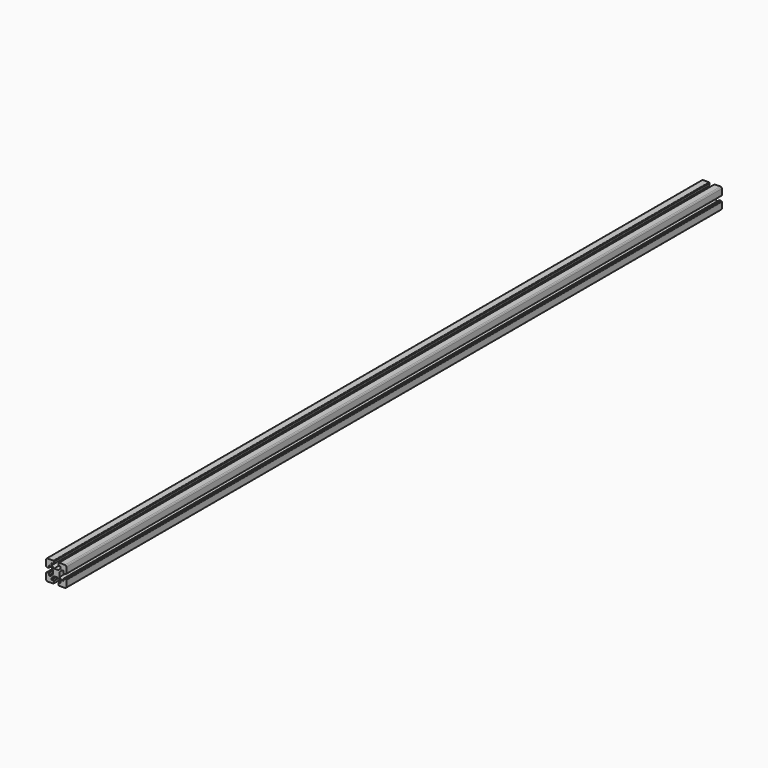
from build123d import *

# Parameters (mm, degrees)
F1_DEPTH = 1820


with BuildPart() as f1:
    # F0 (on Front) → F1 (new body)
    with BuildSketch(Plane.XZ):
        with BuildLine():
            Line((93.5, 122.5), (80.5, 122.5))
            ThreePointArc((80.5, 122.5), (79.35195, 122.271639), (78.37868, 121.62132))
            ThreePointArc((78.37868, 121.62132), (77.728361, 120.64805), (77.5, 119.5))
            Line((77.5, 119.5), (77.5, 106.5))
            ThreePointArc((77.5, 106.5), (77.792893, 105.792893), (78.5, 105.5))
            Line((78.5, 105.5), (79, 105.5))
            Line((79, 105.5), (79, 105))
            Line((79, 105), (83.5, 105))
            Line((83.5, 105), (83.5, 110))
            Line((83.5, 110), (87.5, 110))
            Line((87.5, 110), (92.5, 105))
            Line((92.5, 105), (92.5, 100))
            Line((92.5, 100), (92.5, 95))
            Line((92.5, 95), (87.5, 90))
            Line((87.5, 90), (83.5, 90))
            Line((83.5, 90), (83.5, 95))
            Line((83.5, 95), (79, 95))
            Line((79, 95), (79, 94.5))
            Line((79, 94.5), (78.5, 94.5))
            ThreePointArc((78.5, 94.5), (77.792893, 94.207107), (77.5, 93.5))
            Line((77.5, 93.5), (77.5, 80.5))
            ThreePointArc((77.5, 80.5), (77.728361, 79.35195), (78.37868, 78.37868))
            ThreePointArc((78.37868, 78.37868), (79.35195, 77.728361), (80.5, 77.5))
            Line((80.5, 77.5), (93.5, 77.5))
            ThreePointArc((93.5, 77.5), (94.207107, 77.792893), (94.5, 78.5))
            Line((94.5, 78.5), (94.5, 79))
            Line((94.5, 79), (95, 79))
            Line((95, 79), (95, 83.5))
            Line((95, 83.5), (90, 83.5))
            Line((90, 83.5), (90, 87.5))
            Line((90, 87.5), (95, 92.5))
            Line((95, 92.5), (100, 92.5))
            Line((100, 92.5), (105, 92.5))
            Line((105, 92.5), (110, 87.5))
            Line((110, 87.5), (110, 83.5))
            Line((110, 83.5), (105, 83.5))
            Line((105, 83.5), (105, 79))
            Line((105, 79), (105.5, 79))
            Line((105.5, 79), (105.5, 78.5))
            ThreePointArc((105.5, 78.5), (105.792893, 77.792893), (106.5, 77.5))
            Line((106.5, 77.5), (119.5, 77.5))
            ThreePointArc((119.5, 77.5), (120.64805, 77.728361), (121.62132, 78.37868))
            ThreePointArc((121.62132, 78.37868), (122.271639, 79.35195), (122.5, 80.5))
            Line((122.5, 80.5), (122.5, 93.5))
            ThreePointArc((122.5, 93.5), (122.207107, 94.207107), (121.5, 94.5))
            Line((121.5, 94.5), (121, 94.5))
            Line((121, 94.5), (121, 95))
            Line((121, 95), (116.5, 95))
            Line((116.5, 95), (116.5, 90))
            Line((116.5, 90), (112.5, 90))
            Line((112.5, 90), (107.5, 95))
            Line((107.5, 95), (107.5, 100))
            Line((107.5, 100), (107.5, 105))
            Line((107.5, 105), (112.5, 110))
            Line((112.5, 110), (116.5, 110))
            Line((116.5, 110), (116.5, 105))
            Line((116.5, 105), (121, 105))
            Line((121, 105), (121, 105.5))
            Line((121, 105.5), (121.5, 105.5))
            ThreePointArc((121.5, 105.5), (122.207107, 105.792893), (122.5, 106.5))
            Line((122.5, 106.5), (122.5, 119.5))
            ThreePointArc((122.5, 119.5), (122.271639, 120.64805), (121.62132, 121.62132))
            ThreePointArc((121.62132, 121.62132), (120.64805, 122.271639), (119.5, 122.5))
            Line((119.5, 122.5), (106.5, 122.5))
            ThreePointArc((106.5, 122.5), (105.792893, 122.207107), (105.5, 121.5))
            Line((105.5, 121.5), (105.5, 121))
            Line((105.5, 121), (105, 121))
            Line((105, 121), (105, 116.5))
            Line((105, 116.5), (110, 116.5))
            Line((110, 116.5), (110, 112.5))
            Line((110, 112.5), (105, 107.5))
            Line((105, 107.5), (100, 107.5))
            Line((100, 107.5), (95, 107.5))
            Line((95, 107.5), (90, 112.5))
            Line((90, 112.5), (90, 116.5))
            Line((90, 116.5), (95, 116.5))
            Line((95, 116.5), (95, 121))
            Line((95, 121), (94.5, 121))
            Line((94.5, 121), (94.5, 121.5))
            ThreePointArc((94.5, 121.5), (94.207107, 122.207107), (93.5, 122.5))
        make_face()
    extrude(amount=F1_DEPTH)


solid = f1.part
